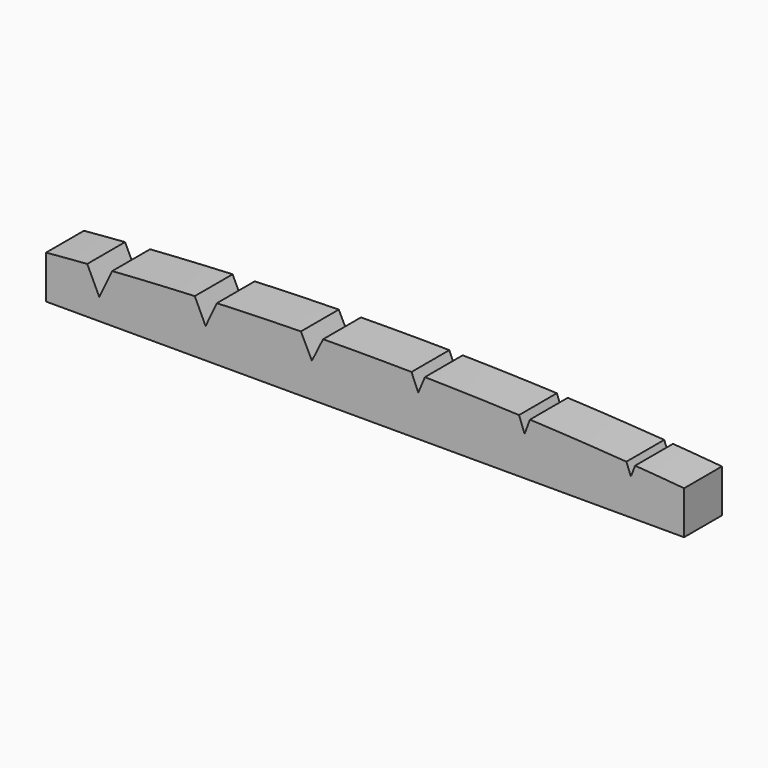
from build123d import *

# Parameters (mm, degrees)
F2_DEPTH = 3.175
F4_DEPTH = 3.176


with BuildPart() as f2:
    # F1 (on Front) → F2 (new body)
    with BuildSketch(Plane.XZ):
        with BuildLine():
            Line((21.4122, -3.837549), (21.4122, -0.941949))
            ThreePointArc((21.4122, -0.941949), (0, 0), (-21.4122, -0.941949))
            Line((-21.4122, -0.941949), (-21.4122, -3.837549))
            ThreePointArc((-21.4122, -3.837549), (0, -2.885646), (21.4122, -3.837549))
        make_face()
        with BuildLine():
            Line((-21.4122, -3.837549), (21.4122, -3.837549))
            ThreePointArc((21.4122, -3.837549), (0, -2.885646), (-21.4122, -3.837549))
        make_face()
    extrude(amount=F2_DEPTH)

    # F3 (on face) → F4 (cut, through all)
    with BuildSketch(Plane.XZ.offset(3.175)):
        Polygon((-16.691098, 0), (-18.99197, 0), (-17.841534, -2.40765), align=None)
        Polygon((-9.852512, 0), (-11.557331, 0), (-10.704922, -1.806015), align=None)
        Polygon((-2.810867, 0), (-4.325751, 0), (-3.568309, -1.529221), align=None)
        Polygon((4.028406, 0), (3.108212, 0), (3.568309, -1.094737), align=None)
        Polygon((11.157776, 0), (10.252067, 0), (10.704922, -1.216273), align=None)
        Polygon((18.239227, -0.383831), (17.443841, -0.383831), (17.841534, -1.416026), align=None)
    extrude(amount=-F4_DEPTH, mode=Mode.SUBTRACT)


solid = f2.part
